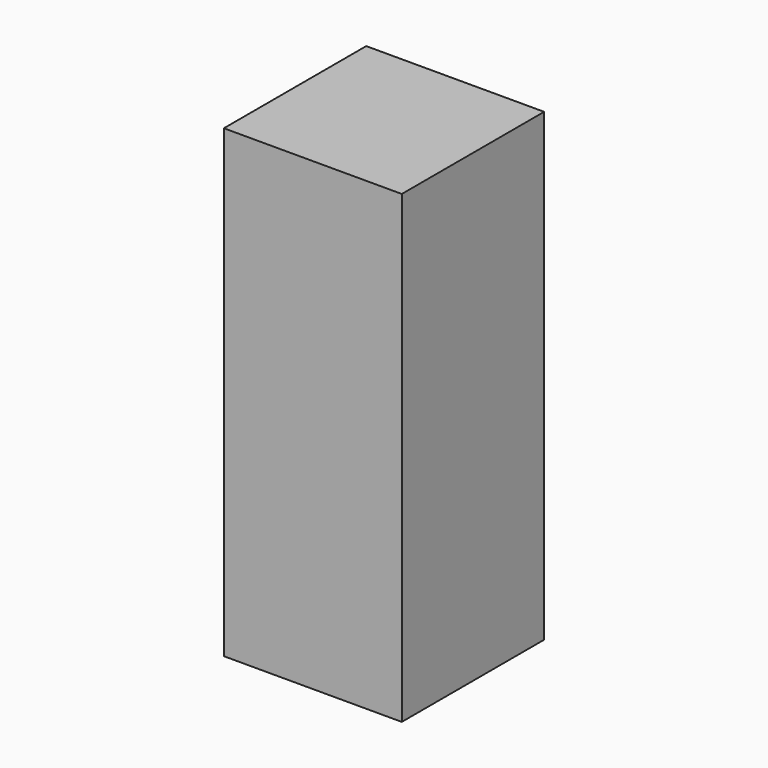
from build123d import *

# Parameters (mm, degrees)
F0_W      = 50.8
F0_H      = 50.8
F1_DEPTH  = 25.4
F1_FACE_W = 50.8
F1_FACE_H = 50.8
F2_DEPTH  = 81.90191


with BuildPart() as f1:
    # F0 (on Front) → F1 (new body, symmetric)
    with BuildSketch(Plane.XZ):
        with Locations((25.4, 25.4)):
            Rectangle(F0_W, F0_H)
    extrude(amount=F1_DEPTH, both=True)

    # F1_face (on face) → F2 (join)
    with BuildSketch(Plane(origin=(25.4, 0, 50.8), x_dir=(1, 0, 0), z_dir=(0, 0, 1))):
        Rectangle(F1_FACE_W, F1_FACE_H)
    extrude(amount=F2_DEPTH)


solid = f1.part
